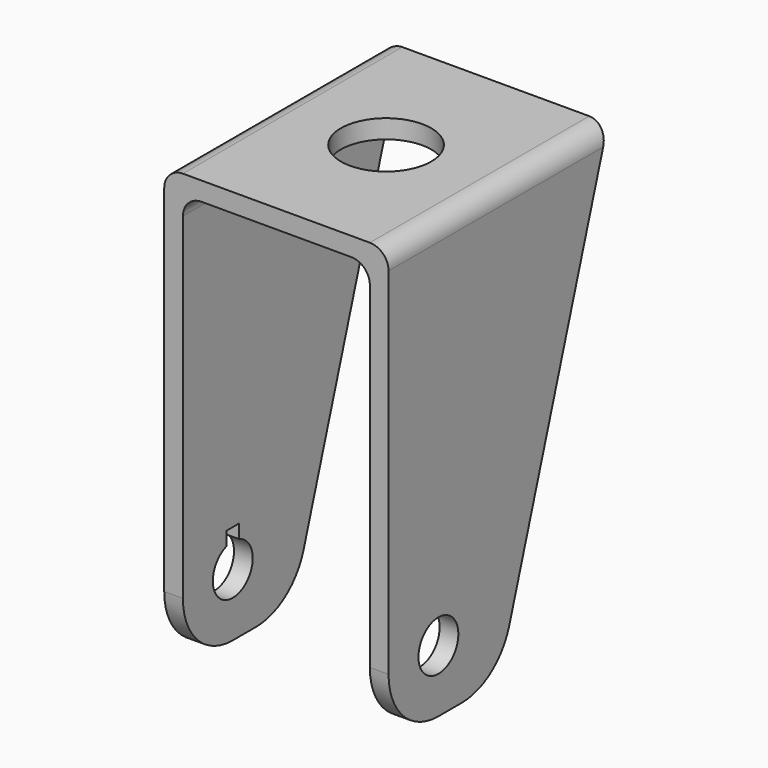
from build123d import *

# Parameters (mm, degrees)
F1_DEPTH  = 44
F3_R      = 4
F4_DEPTH  = 25
F6_DEPTH  = 25
F7_R      = 3
F8_R      = 10
F9_R      = 7.25
F10_DEPTH = 25


with BuildPart() as f1:
    # F0 (on Front) → F1 (new body)
    with BuildSketch(Plane.XZ):
        Polygon((0, 70), (0, 0), (3, 0), (3, 67), (33, 67), (33, 0), (36, 0), (36, 70), align=None)
    extrude(amount=F1_DEPTH)

    # F2 (on face) + F3 (on face) → F4 (cut)
    with BuildSketch(Plane.YZ.offset(36)):
        Polygon((0, 0), (0, 70), (-22, 0), align=None)
    with BuildSketch(Plane.YZ.offset(36)):
        with Locations((-34, 10)):
            Circle(F3_R)
    extrude(amount=-F4_DEPTH, mode=Mode.SUBTRACT)

    # F5 (on face) → F6 (cut)
    with BuildSketch(Plane(origin=(0, 0, 0), x_dir=(0, -1, 0), z_dir=(-1, 0, 0))):
        Polygon((22, 0), (0, 70), (0, 0), align=None)
        with BuildLine():
            Line((32.75, 16), (32.75, 13.7996710384))
            ThreePointArc((32.75, 13.7996710384), (34, 6), (35.25, 13.7996710384))
            Line((35.25, 13.7996710384), (35.25, 16))
            Line((35.25, 16), (34, 16))
            Line((34, 16), (32.75, 16))
        make_face()
    extrude(amount=-F6_DEPTH, mode=Mode.SUBTRACT)

    # F7
    f7_edges = [f1.edges().sort_by_distance(p)[0] for p in [
        (33, -22.471429, 67),
        (3, -22.471429, 67),
        (36, -22, 70),
        (0, -22, 70),
    ]]
    fillet(f7_edges, radius=F7_R)

    # F8
    f8_edges = [f1.edges().sort_by_distance(p)[0] for p in [
        (1.5, -44, 0),
        (34.5, -44, 0),
        (1.5, -22, 0),
        (34.5, -22, 0),
    ]]
    fillet(f8_edges, radius=F8_R)

    # F9 (on face) → F10 (cut)
    with BuildSketch(Plane.XY.offset(70)):
        with Locations((18, -22)):
            Circle(F9_R)
    extrude(amount=-F10_DEPTH, mode=Mode.SUBTRACT)


solid = f1.part
